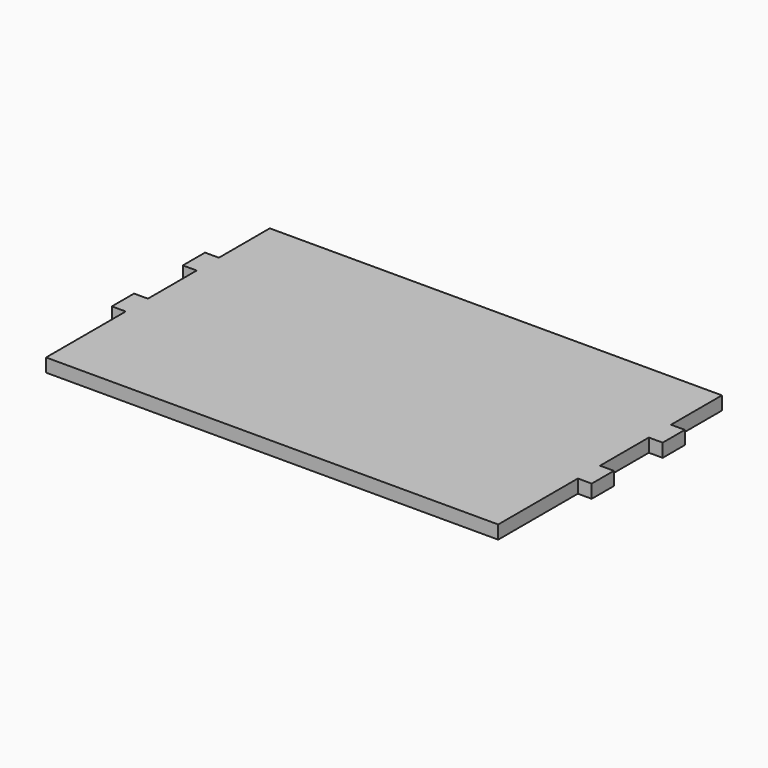
from build123d import *

# Parameters (mm, degrees)
F1_DEPTH = 9.2075


with BuildPart() as f1:
    # F0 (on Top) → F1 (new body, symmetric)
    with BuildSketch(Plane.XY):
        Polygon((0, 136.8044), (0, 0), (621.284, 0), (621.284, 136.8044), (640.334, 136.8044), (640.334, 174.9044), (621.284, 174.9044), (621.284, 258.7244), (640.334, 258.7244), (640.334, 296.8244), (621.284, 296.8244), (621.284, 384.2766), (0, 384.2766), (0, 296.8244), (-19.05, 296.8244), (-19.05, 258.7244), (0, 258.7244), (0, 174.9044), (-19.05, 174.9044), (-19.05, 136.8044), align=None)
    extrude(amount=F1_DEPTH, both=True)


solid = f1.part
